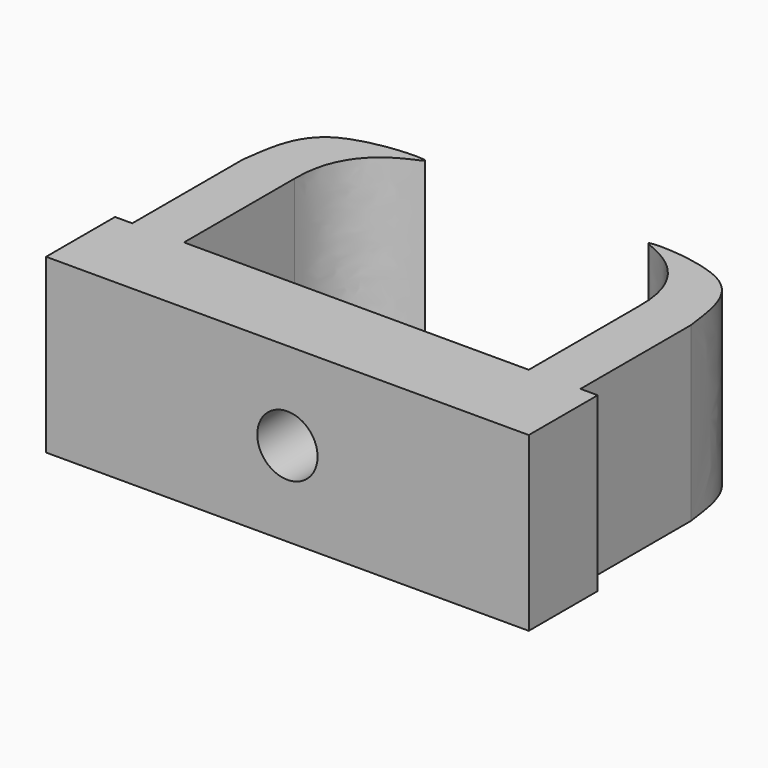
from build123d import *

# Parameters (mm, degrees)
F1_DEPTH = 10
F3_D     = 3.5
F3_DEPTH = 20
F3_TIP   = 1.0515060833


with BuildPart() as f1:
    # F0 (on Top) → F1 (new body)
    with BuildSketch(Plane.XY):
        Polygon((0, 0), (14, 0), (14, 5), (13, 5), (10, 5), (-10, 5), (-13, 5), (-14, 5), (-14, 0), align=None)
        with BuildLine():
            Line((10, 5), (13, 5))
            Line((13, 5), (13, 13))
            add(Edge.make_bspline(
                [(10, 13), (10.0875152242, 17.3310754155), (3.1900581528, 18.3531665627), (12.4792576098, 18.1416594137), (12.7652252364, 14.7197898641), (13, 13)],
                knots=[0, 0, 0, 0, 0.3647942323, 0.6803735299, 1, 1, 1, 1], degree=3))
            Line((10, 13), (10, 5))
        make_face()
        with BuildLine():
            Line((-13, 5), (-10, 5))
            Line((-10, 5), (-10, 13))
            add(Edge.make_bspline(
                [(-10, 13), (-10.0875152242, 17.3310754155), (-3.1900581528, 18.3531665627), (-12.4792576098, 18.1416594137), (-12.7652252364, 14.7197898641), (-13, 13)],
                knots=[0, 0, 0, 0, 0.3647942323, 0.6803735299, 1, 1, 1, 1], degree=3))
            Line((-13, 13), (-13, 5))
        make_face()
    extrude(amount=F1_DEPTH)

    # F3
    with Locations(Plane.XZ):
        with Locations((0, 4.9098548479)):
            Hole(F3_D / 2, depth=F3_DEPTH)
            with Locations((0, 0, -(F3_DEPTH + F3_TIP / 2))):  # 118° drill point
                Cone(0, F3_D / 2, F3_TIP, mode=Mode.SUBTRACT)


solid = f1.part
